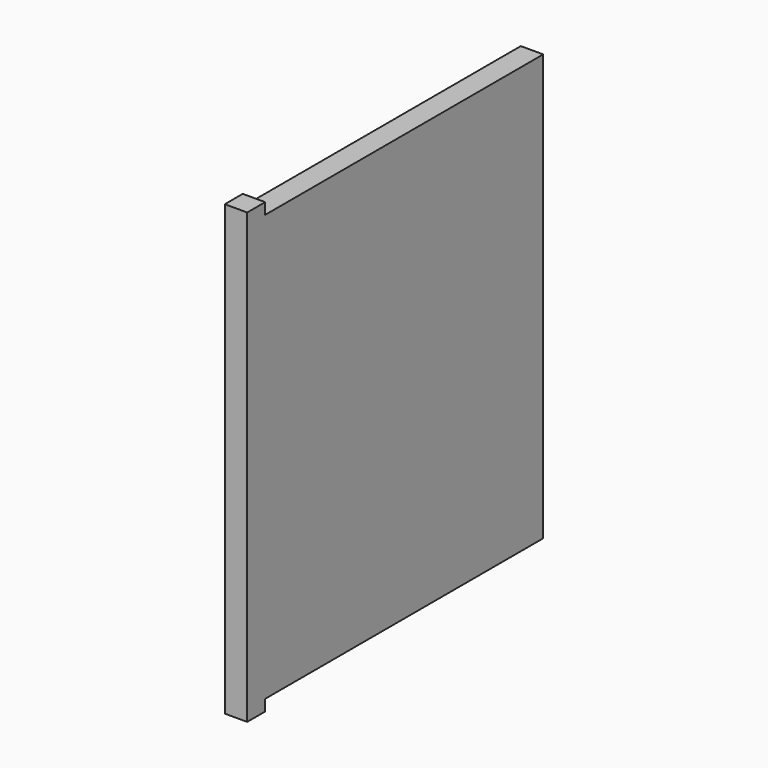
from build123d import *

# Parameters (mm, degrees)
F0_W     = 6.35
F0_H     = 3.175
F1_DEPTH = 6.35


with BuildPart() as f1:
    # F0 (on Right) → F1 (new body)
    with BuildSketch(Plane.YZ):
        Polygon((52.3875, -60.325), (52.3875, 60.325), (-46.0375, 60.325), (-52.3875, 60.325), (-52.3875, -60.325), (-46.0375, -60.325), align=None)
        with Locations((-49.2125, 61.9125)):
            Rectangle(F0_W, F0_H)
        with Locations((-49.2125, -61.9125)):
            Rectangle(F0_W, F0_H)
    extrude(amount=F1_DEPTH)


solid = f1.part
